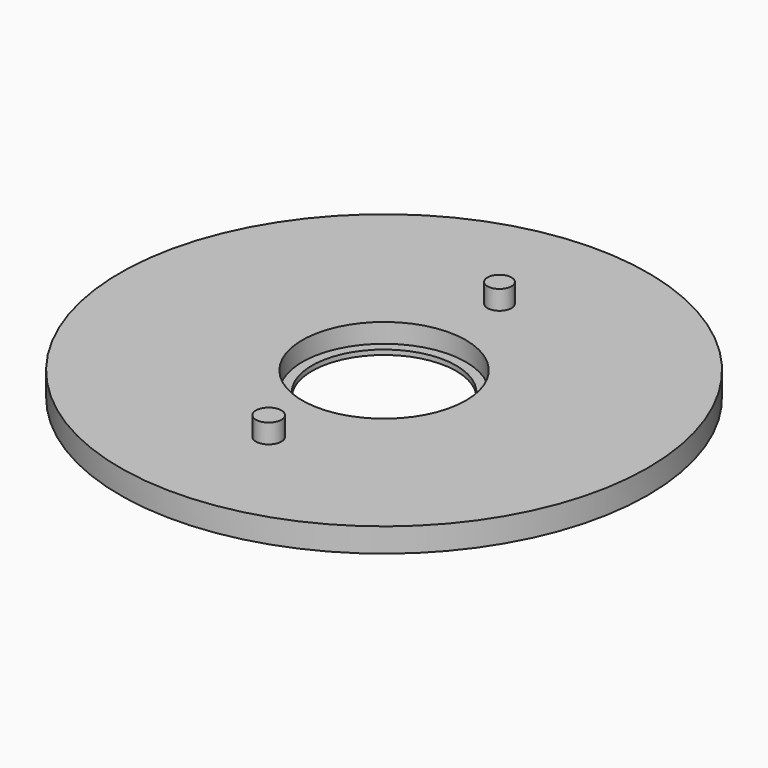
from build123d import *

# Parameters (mm, degrees)
F0_R     = 69.723
F1_DEPTH = 6.35
F2_R     = 19.05
F3_DEPTH = 25.4
F4_R     = 21.6125531476
F5_DEPTH = 3.302
F6_DEPTH = 1.778
F7_R     = 3.175
F7_R_2   = 3.3636325345
F8_DEPTH = 5.08


with BuildPart() as f1:
    # F0 (on Top) → F1 (new body)
    with BuildSketch(Plane.XY):
        Circle(F0_R)
    extrude(amount=F1_DEPTH)

    # F2 (on face) → F3 (cut)
    with BuildSketch(Plane.XY.offset(6.35)):
        Circle(F2_R)
    extrude(amount=-F3_DEPTH, mode=Mode.SUBTRACT)

    # F4 (on face) → F5 (cut)
    with BuildSketch(Plane.XY.offset(6.35)):
        Circle(F4_R)
    extrude(amount=-F5_DEPTH, mode=Mode.SUBTRACT)

    # F6 (cut): a face of the model
    f6_faces = [f1.faces().sort_by_distance(p)[0] for p in [
        (-21.001257832, 0, 3.048),
    ]]
    extrude(f6_faces, amount=-F6_DEPTH, mode=Mode.SUBTRACT)

    # F7 (on face) → F8 (join)
    with BuildSketch(Plane.XY.offset(6.35)):
        with Locations((0, 38.1)):
            Circle(F7_R)
        with Locations((0, -38.1)):
            Circle(F7_R_2)
    extrude(amount=F8_DEPTH)


solid = f1.part
